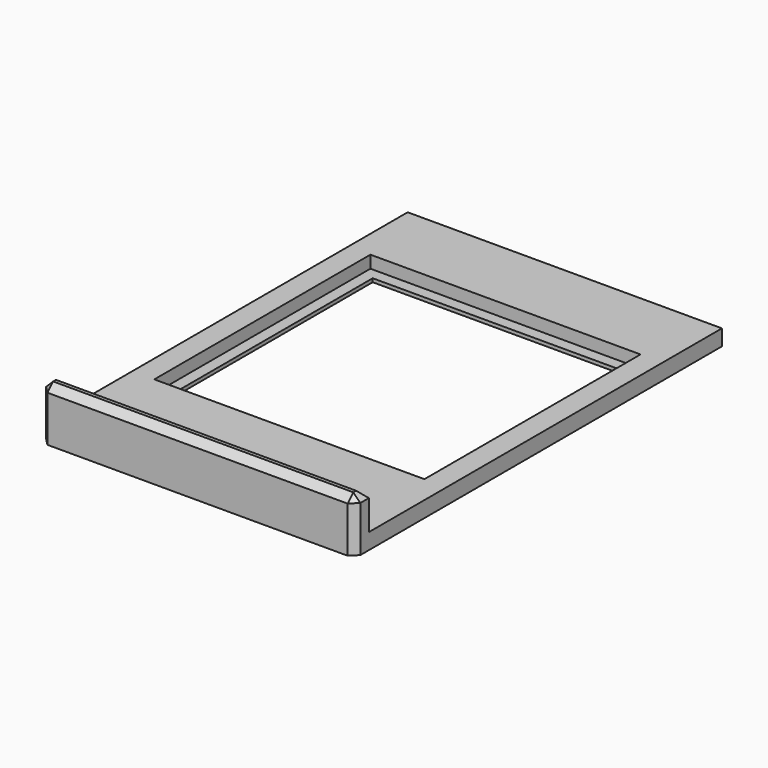
from build123d import *

# Parameters (mm, degrees)
SKETCH_W             = 89
SKETCH_H             = 4.5
PAD_DEPTH            = 125
SKETCH001_W          = 76.5
SKETCH001_H          = 76.5
POCKET_DEPTH         = 3.5
SKETCH002_W          = 70
SKETCH002_H          = 70
POCKET001_DEPTH      = 1.001
POCKET001_DEPTH_BACK = 3.501
SKETCH003_W          = 89
SKETCH003_H          = 15
PAD001_DEPTH         = 5
CHAMFER_SIZE         = 2


with BuildPart() as part:
    # Sketch → Pad (new body)
    with BuildSketch(Plane.XZ):
        Rectangle(SKETCH_W, SKETCH_H)
    extrude(amount=-PAD_DEPTH)

    # Sketch001 (on Face2 of Pad) → Pocket (cut)
    with BuildSketch(Plane.XY.offset(2.25)):
        with Locations((0, 65.75)):
            Rectangle(SKETCH001_W, SKETCH001_H)
    extrude(amount=-POCKET_DEPTH, mode=Mode.SUBTRACT)

    # Sketch002 (on Face11 of Pocket) → Pocket001 (cut, two sides)
    with BuildSketch(Plane.XY.offset(-1.25)) as pocket001_sk:
        with Locations((0, 65.75)):
            Rectangle(SKETCH002_W, SKETCH002_H)
    extrude(amount=-POCKET001_DEPTH, mode=Mode.SUBTRACT)
    extrude(pocket001_sk.sketch, amount=POCKET001_DEPTH_BACK, mode=Mode.SUBTRACT)

    # Sketch003 (on Face4 of Pocket001) → Pad001 (join)
    with BuildSketch(Plane.XZ):
        with Locations((0, 5.25)):
            Rectangle(SKETCH003_W, SKETCH003_H)
    extrude(amount=PAD001_DEPTH)

    # Chamfer
    chamfer_edges = [part.edges().sort_by_distance(p)[0] for p in [
        (0, -5, 12.75),
        (44.5, -2.5, 12.75),
        (0, 0, 12.75),
        (-44.5, -2.5, 12.75),
        (-44.5, -5, 5.25),
        (44.5, -5, 5.25),
    ]]
    chamfer(chamfer_edges, length=CHAMFER_SIZE)


solid = part.part
